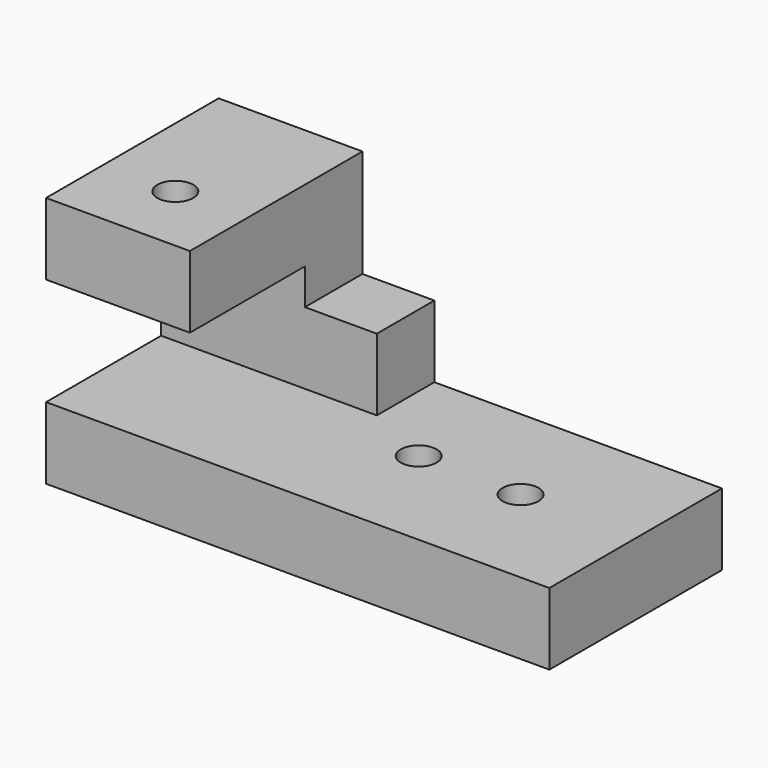
from build123d import *

# Parameters (mm, degrees)
F0_W      = 177.8
F0_H      = 88.9
F1_DEPTH  = 76.2
F2_W      = 50.8
F2_H      = 25.4
F3_DEPTH  = 76.2
F4_DEPTH  = 76.2
F5_DEPTH  = 76.2
F6_DEPTH  = 50.8
F7_DEPTH  = 50.8
F8_R      = 6.35
F9_DEPTH  = 25.4
F11_DEPTH = 25.4
F12_DEPTH = 25.4
F13_R     = 6.35
F14_DEPTH = 25.4
F15_R     = 6.35
F16_DEPTH = 50.8
F17_R     = 6.35
F18_DEPTH = 76.2


with BuildPart() as f1:
    # F0 (on Front) → F1 (new body)
    with BuildSketch(Plane.XZ):
        with Locations((88.9, -44.45)):
            Rectangle(F0_W, F0_H)
    extrude(amount=F1_DEPTH)

    # F2 (on face) → F3 (join)
    with BuildSketch(Plane.XZ.offset(76.2)):
        with Locations((25.4, -12.7)):
            Rectangle(F2_W, F2_H)
        Polygon((0, -63.5), (0, -88.9), (177.8, -88.9), (177.8, -63.5), (76.2, -63.5), align=None)
        Polygon((0, -25.4), (0, -63.5), (76.2, -63.5), (76.2, -38.1), (50.8, -38.1), (50.8, -25.4), align=None)
    extrude(amount=-F3_DEPTH)

    # F2 (on face) → F4 (join)
    with BuildSketch(Plane.XZ.offset(76.2)):
        with Locations((25.4, -12.7)):
            Rectangle(F2_W, F2_H)
        Polygon((0, -25.4), (0, -63.5), (76.2, -63.5), (76.2, -38.1), (50.8, -38.1), (50.8, -25.4), align=None)
        Polygon((0, -63.5), (0, -88.9), (177.8, -88.9), (177.8, -63.5), (76.2, -63.5), align=None)
    extrude(amount=-F4_DEPTH)

    # F2 (on face) → F5 (cut)
    with BuildSketch(Plane.XZ.offset(76.2)):
        Polygon((76.2, -38.1), (76.2, -63.5), (177.8, -63.5), (177.8, 0), (50.8, 0), (50.8, -25.4), (50.8, -38.1), align=None)
    extrude(amount=-F5_DEPTH, mode=Mode.SUBTRACT)

    # F2 (on face) → F6 (join)
    with BuildSketch(Plane.XZ.offset(76.2)):
        Polygon((0, -25.4), (0, -63.5), (76.2, -63.5), (76.2, -38.1), (50.8, -38.1), (50.8, -25.4), align=None)
    extrude(amount=-F6_DEPTH)

    # F2 (on face) → F7 (cut)
    with BuildSketch(Plane.XZ.offset(76.2)):
        Polygon((0, -25.4), (0, -63.5), (76.2, -63.5), (76.2, -38.1), (50.8, -38.1), (50.8, -25.4), align=None)
    extrude(amount=-F7_DEPTH, mode=Mode.SUBTRACT)

    # F8 (on Top) → F9 (join)
    with BuildSketch(Plane.XY):
        with Locations((25.4, -50.079788)):
            Circle(F8_R)
    extrude(amount=-F9_DEPTH)

    # F10 (on Top) → F11 (cut)
    with BuildSketch(Plane.XY):
        with BuildLine():
            ThreePointArc((19.05, -50.879826), (25.4, -57.229826), (31.75, -50.879826))
            ThreePointArc((31.75, -50.879826), (25.4, -44.529826), (19.05, -50.879826))
        make_face()
    extrude(amount=-F11_DEPTH, mode=Mode.SUBTRACT)

    # F10 (on Top) → F12 (cut)
    with BuildSketch(Plane.XY):
        with BuildLine():
            ThreePointArc((19.05, -50.879826), (25.4, -57.229826), (31.75, -50.879826))
            ThreePointArc((31.75, -50.879826), (25.4, -44.529826), (19.05, -50.879826))
        make_face()
    extrude(amount=-F12_DEPTH, mode=Mode.SUBTRACT)

    # F13 (on Top) → F14 (cut)
    with BuildSketch(Plane.XY):
        with Locations((139.137983, -37.799459)):
            Circle(F13_R)
        with Locations((101.160564, -37.799459)):
            Circle(F13_R)
    extrude(amount=-F14_DEPTH, mode=Mode.SUBTRACT)

    # F15 (on face) → F16 (cut)
    with BuildSketch(Plane.XY.offset(-63.5)):
        with Locations((100.378424, -37.129913)):
            Circle(F15_R)
    extrude(amount=-F16_DEPTH, mode=Mode.SUBTRACT)

    # F17 (on Top) → F18 (cut)
    with BuildSketch(Plane.XY):
        with Locations((136.710018, -37.558652)):
            Circle(F17_R)
    extrude(amount=-F18_DEPTH, mode=Mode.SUBTRACT)


solid = f1.part
